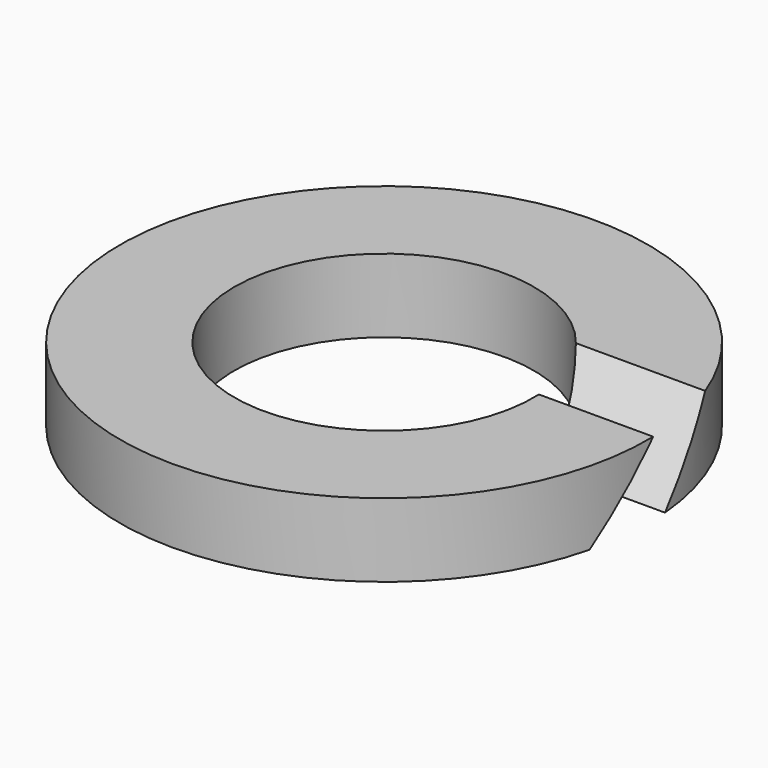
from build123d import *

# Parameters (mm, degrees)
F0_R     = 10.75
F0_R_2   = 6.1
F1_DEPTH = 3
F3_DEPTH = 25


with BuildPart() as f1:
    # F0 (on Top) → F1 (new body)
    with BuildSketch(Plane.XY):
        Circle(F0_R)
        Circle(F0_R_2, mode=Mode.SUBTRACT)
    extrude(amount=F1_DEPTH)

    # F2 (on Right) → F3 (cut)
    with BuildSketch(Plane.YZ):
        Polygon((4.199568, 3.463028), (1.399902, 4.195613), (-3.494875, -0.962323), (0, -0.962323), align=None)
    extrude(amount=F3_DEPTH, mode=Mode.SUBTRACT)


solid = f1.part
